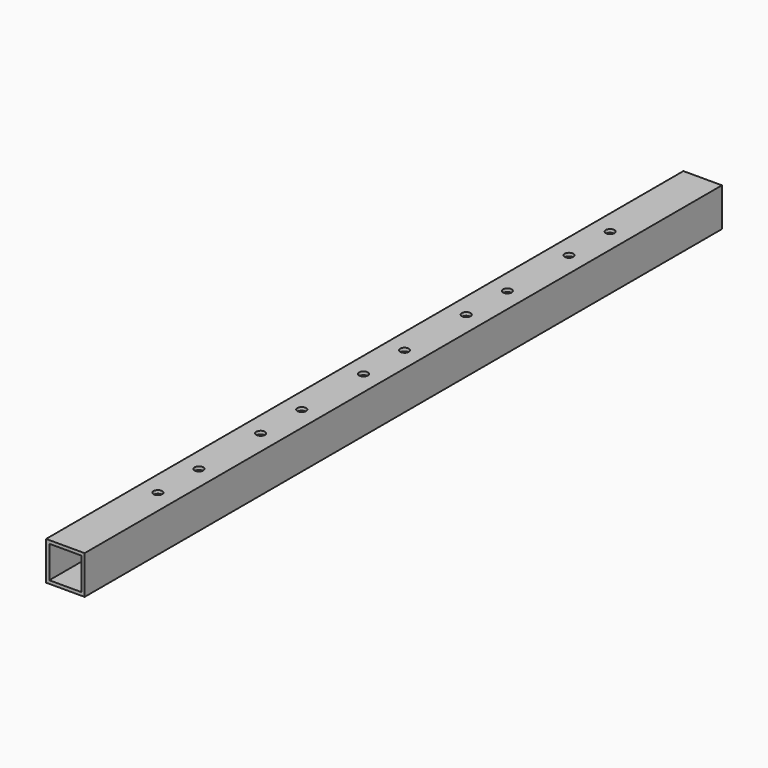
from build123d import *

# Parameters (mm, degrees)
F0_W       = 19.05
F0_H       = 19.05
F0_W_2     = 15.875
F0_H_2     = 15.875
F1_DEPTH   = 196.85
F2_R       = 2.15265
F1_FACE1_W = 19.05
F1_FACE1_H = 393.7
F3_DEPTH   = 25.4


with BuildPart() as f1:
    # F0 (on Front) → F1 (new body, symmetric)
    with BuildSketch(Plane.XZ):
        Rectangle(F0_W, F0_H)
        Rectangle(F0_W_2, F0_H_2, mode=Mode.SUBTRACT)
    extrude(amount=F1_DEPTH, both=True)

    # F2 (on face) + F1_face1 (on face) → F3 (cut)
    with BuildSketch(Plane.XY.offset(9.525)):
        with Locations((0, 12.7)):
            Circle(F2_R)
        with Locations((0, -12.7)):
            Circle(F2_R)
        with Locations((0, 76.2)):
            Circle(F2_R)
        with Locations((0, 50.8)):
            Circle(F2_R)
        with Locations((0, 139.7)):
            Circle(F2_R)
        with Locations((0, 114.3)):
            Circle(F2_R)
        with Locations((0, -50.8)):
            Circle(F2_R)
        with Locations((0, -76.2)):
            Circle(F2_R)
        with Locations((0, -114.3)):
            Circle(F2_R)
        with Locations((0, -139.7)):
            Circle(F2_R)
    with BuildSketch(Plane(origin=(0, 0, -9.525), x_dir=(1, 0, 0), z_dir=(0, 0, -1))):
        Rectangle(F1_FACE1_W, F1_FACE1_H)
    extrude(amount=-F3_DEPTH, dir=(0, 0, 1), mode=Mode.SUBTRACT)


solid = f1.part
